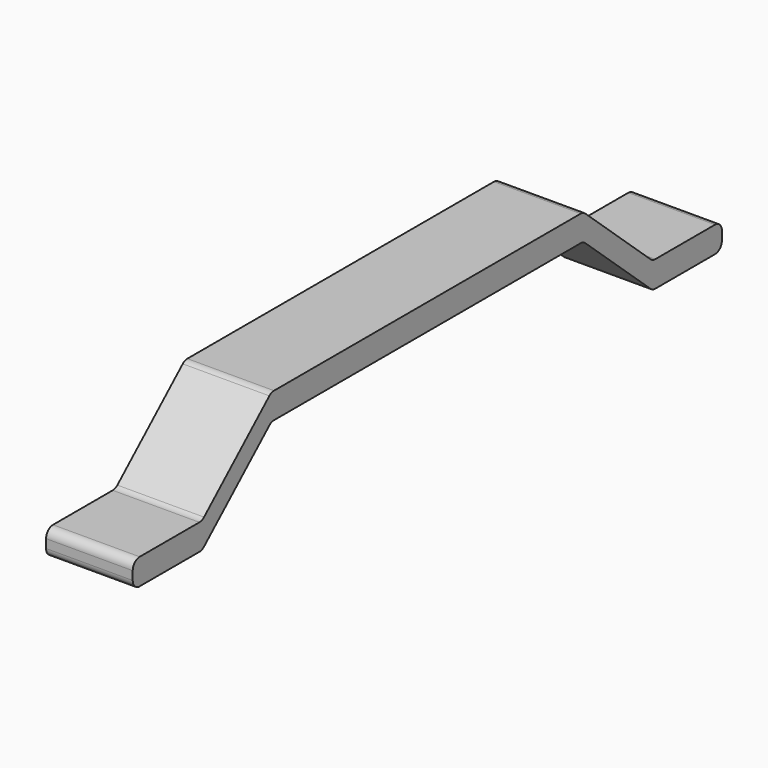
from build123d import *

# Parameters (mm, degrees)
F1_DEPTH = 20


with BuildPart() as f1:
    # F0 (on Right) → F1 (new body)
    with BuildSketch(Plane.YZ):
        with BuildLine():
            Line((-65.767472, 6), (-83, 6))
            ThreePointArc((-83, 6), (-84.414214, 5.414214), (-85, 4))
            Line((-85, 4), (-85, 2))
            ThreePointArc((-85, 2), (-84.414214, 0.585786), (-83, 0))
            Line((-83, 0), (-65.767472, 0))
            ThreePointArc((-65.767472, 0), (-65.050944, 0.132759), (-64.429543, 0.513412))
            Line((-64.429543, 0.513412), (-45.570457, 17.486588))
            ThreePointArc((-45.570457, 17.486588), (-44.949056, 17.867241), (-44.232528, 18))
            Line((-44.232528, 18), (0, 18))
            Line((0, 18), (0, 24))
            Line((0, 24), (-44.232528, 24))
            ThreePointArc((-44.232528, 24), (-44.949056, 23.867241), (-45.570457, 23.486588))
            Line((-45.570457, 23.486588), (-64.429543, 6.513412))
            ThreePointArc((-64.429543, 6.513412), (-65.050944, 6.132759), (-65.767472, 6))
        make_face()
        with BuildLine():
            Line((44.232528, 24), (0, 24))
            Line((0, 24), (0, 18))
            Line((0, 18), (44.232528, 18))
            ThreePointArc((44.232528, 18), (44.949056, 17.867241), (45.570457, 17.486588))
            Line((45.570457, 17.486588), (64.429543, 0.513412))
            ThreePointArc((64.429543, 0.513412), (65.050944, 0.132759), (65.767472, 0))
            Line((65.767472, 0), (83, 0))
            ThreePointArc((83, 0), (84.414214, 0.585786), (85, 2))
            Line((85, 2), (85, 4))
            ThreePointArc((85, 4), (84.414214, 5.414214), (83, 6))
            Line((83, 6), (65.767472, 6))
            ThreePointArc((65.767472, 6), (65.050944, 6.132759), (64.429543, 6.513412))
            Line((64.429543, 6.513412), (45.570457, 23.486588))
            ThreePointArc((45.570457, 23.486588), (44.949056, 23.867241), (44.232528, 24))
        make_face()
    extrude(amount=F1_DEPTH)


solid = f1.part
